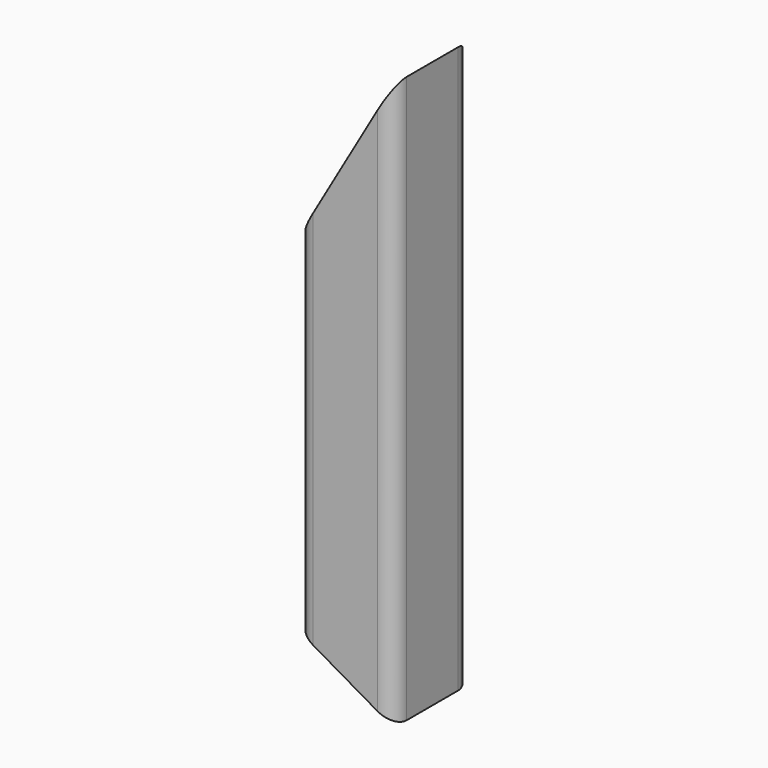
from build123d import *

# Parameters (mm, degrees)
F0_W          = 38.1
F0_H          = 38.1
F0_W_2        = 32.004
F0_H_2        = 32.004
F1_DEPTH      = 228.6
F2_R          = 3.048
F3_R          = 6.35
F5_DEPTH      = 19.051
F5_DEPTH_BACK = 19.051
F7_DEPTH      = 19.051
F7_DEPTH_BACK = 19.051


with BuildPart() as f1:
    # F0 (on Top) → F1 (new body)
    with BuildSketch(Plane.XY):
        Rectangle(F0_W, F0_H)
        Rectangle(F0_W_2, F0_H_2, mode=Mode.SUBTRACT)
    extrude(amount=F1_DEPTH)

    # F2
    f2_edges = [f1.edges().sort_by_distance(p)[0] for p in [
        (16.002, 16.002, 114.3),
        (-16.002, 16.002, 114.3),
        (-16.002, -16.002, 114.3),
        (16.002, -16.002, 114.3),
    ]]
    fillet(f2_edges, radius=F2_R)

    # F3
    f3_edges = [f1.edges().sort_by_distance(p)[0] for p in [
        (-19.05, 19.05, 114.3),
        (-19.05, -19.05, 114.3),
        (19.05, -19.05, 114.3),
        (19.05, 19.05, 114.3),
    ]]
    fillet(f3_edges, radius=F3_R)

    # F4 (on Front) → F5 (cut, two sides)
    with BuildSketch(Plane.XZ) as f5_sk:
        Polygon((-19.05, 162.6088642316), (19.05, 228.6), (-19.05, 228.6), align=None)
    extrude(amount=-F5_DEPTH, mode=Mode.SUBTRACT)
    extrude(f5_sk.sketch, amount=F5_DEPTH_BACK, mode=Mode.SUBTRACT)

    # F6 (on Front) → F7 (cut, two sides)
    with BuildSketch(Plane.XZ) as f7_sk:
        Polygon((-19.05, 27.4963065702), (-19.05, 0), (28.575, 0), align=None)
    extrude(amount=-F7_DEPTH, mode=Mode.SUBTRACT)
    extrude(f7_sk.sketch, amount=F7_DEPTH_BACK, mode=Mode.SUBTRACT)


solid = f1.part
